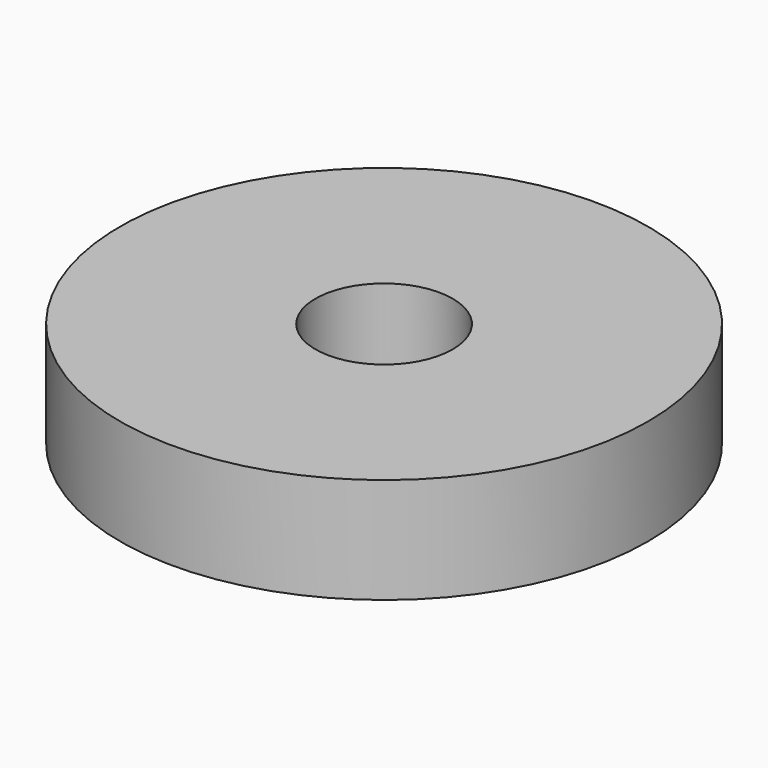
from build123d import *

# Parameters (mm, degrees)
SKETCH_R     = 5
PAD_DEPTH    = 2
SKETCH001_R  = 1.3
POCKET_DEPTH = 5


with BuildPart() as part:
    # Sketch → Pad (new body)
    with BuildSketch(Plane.XY):
        Circle(SKETCH_R)
    extrude(amount=PAD_DEPTH)

    # Sketch001 (on Face3 of Pad) → Pocket (cut)
    with BuildSketch(Plane.XY.offset(2)):
        Circle(SKETCH001_R)
    extrude(amount=-POCKET_DEPTH, mode=Mode.SUBTRACT)


solid = part.part
